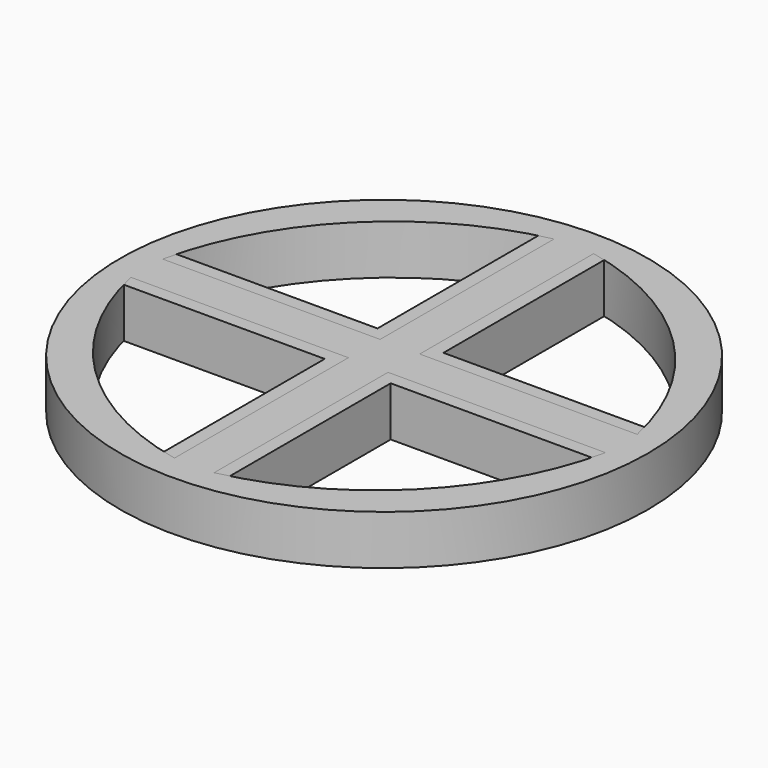
from build123d import *

# Parameters (mm, degrees)
SKETCH_R     = 16
PAD_DEPTH    = 3
SKETCH001_R  = 16
PAD001_DEPTH = 3


with BuildPart() as body:
    # Sketch (on XY_Plane of Origin) → Pad (new body)
    with BuildSketch(Plane.XY):
        Circle(SKETCH_R)
        with BuildLine():
            Line((-14.3611, 2), (-2, 2))
            Line((-2, 2), (-2, 14.3611))
            ThreePointArc((-2, 14.3611), (-9.876731, 9.876731), (-14.3611, 2))
        make_face(mode=Mode.SUBTRACT)
        with BuildLine():
            Line((2, 2), (2, 14.3611))
            ThreePointArc((14.3611, 2), (9.876731, 9.876731), (2, 14.3611))
            Line((14.3611, 2), (2, 2))
        make_face(mode=Mode.SUBTRACT)
        with BuildLine():
            ThreePointArc((-14.3611, -2), (-9.876731, -9.876731), (-2, -14.3611))
            Line((-2, -2), (-2, -14.3611))
            Line((-14.3611, -2), (-2, -2))
        make_face(mode=Mode.SUBTRACT)
        with BuildLine():
            Line((2, -2), (2, -14.3611))
            ThreePointArc((2, -14.3611), (9.876731, -9.876731), (14.3611, -2))
            Line((14.3611, -2), (2, -2))
        make_face(mode=Mode.SUBTRACT)
    extrude(amount=PAD_DEPTH)


with BuildPart() as body001:
    # Sketch001 (on XY_Plane of Origin002) → Pad001 (new body)
    with BuildSketch(Plane.XY):
        Circle(SKETCH001_R)
        with BuildLine():
            Line((-14.3821, 1.2), (-1.2, 1.2))
            Line((-1.2, 1.2), (-1.2, 14.3821))
            ThreePointArc((-1.2, 14.3821), (-9.731981, 9.731981), (-14.3821, 1.2))
        make_face(mode=Mode.SUBTRACT)
        with BuildLine():
            Line((1.2, 1.2), (1.2, 14.3821))
            ThreePointArc((14.3821, 1.2), (9.731981, 9.731981), (1.2, 14.3821))
            Line((14.3821, 1.2), (1.2, 1.2))
        make_face(mode=Mode.SUBTRACT)
        with BuildLine():
            ThreePointArc((-14.3821, -1.2), (-9.731981, -9.731981), (-1.2, -14.3821))
            Line((-1.2, -1.2), (-1.2, -14.3821))
            Line((-14.3821, -1.2), (-1.2, -1.2))
        make_face(mode=Mode.SUBTRACT)
        with BuildLine():
            Line((1.2, -1.2), (1.2, -14.3821))
            ThreePointArc((1.2, -14.3821), (9.731981, -9.731981), (14.3821, -1.2))
            Line((14.3821, -1.2), (1.2, -1.2))
        make_face(mode=Mode.SUBTRACT)
    extrude(amount=PAD001_DEPTH)


solid = Compound([body.part, body001.part])
